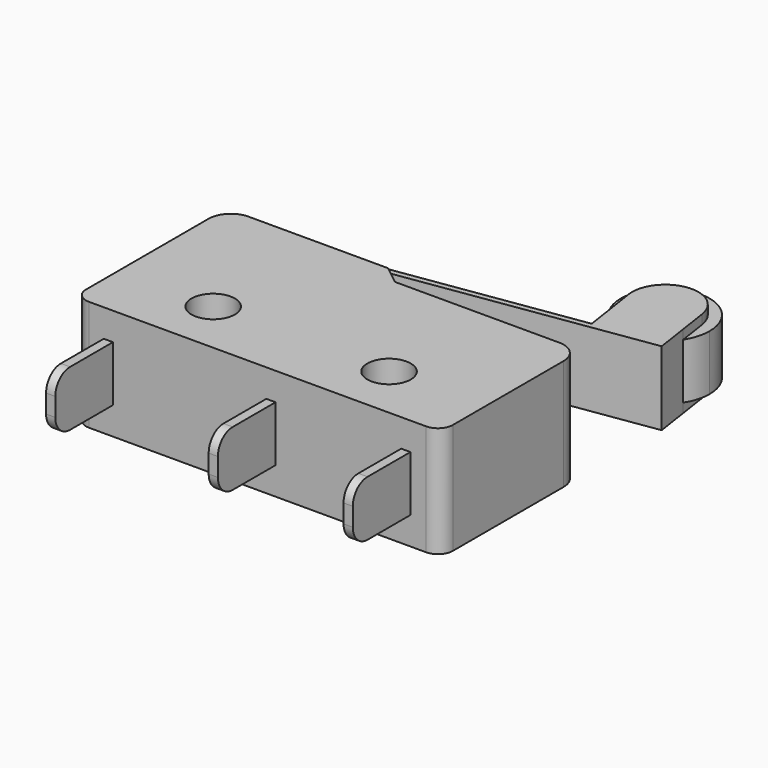
from build123d import *

# Parameters (mm, degrees)
F0_R     = 1.486134
F1_DEPTH = 1.5
F2_DEPTH = 2
F0_R_2   = 1.175
F3_DEPTH = 3
F0_W     = 0.498902
F0_H     = 3.899722
F0_W_2   = 0.498903
F4_DEPTH = 1.5
F5_R     = 1


with BuildPart() as f1:
    # F0 (on Top) → F1 (new body, symmetric)
    with BuildSketch(Plane.XY):
        with BuildLine():
            Line((9.956507, 9.285055), (10.191603, 7.715109))
            ThreePointArc((10.191603, 7.715109), (10.478158, 8.338993), (10.576356, 9.018481))
            ThreePointArc((10.576356, 9.018481), (7.15933, 11.192339), (6.638307, 7.17609))
            Line((6.638307, 7.17609), (6.424053, 8.606856))
            ThreePointArc((6.424053, 8.606856), (7.83697, 10.786197), (9.956507, 9.285055))
        make_face()
        with BuildLine():
            ThreePointArc((6.638307, 7.17609), (8.536307, 6.645627), (10.191603, 7.715109))
            Line((10.191603, 7.715109), (9.956507, 9.285055))
            ThreePointArc((9.956507, 9.285055), (7.83697, 10.786197), (6.424053, 8.606856))
            Line((6.424053, 8.606856), (6.638307, 7.17609))
        make_face()
        with Locations((8.176356, 9.018481)):
            Circle(F0_R, mode=Mode.SUBTRACT)
    extrude(amount=F1_DEPTH, both=True)

    # F0 (on Top) → F2 (join, symmetric)
    with BuildSketch(Plane.XY):
        with BuildLine():
            Line((-8.083594, 2.783208), (-7.783598, 2.783208))
            ThreePointArc((-7.783598, 2.783208), (-7.668552, 3.092999), (-7.379205, 3.252638))
            Line((-7.379205, 3.252638), (10.459818, 5.923991))
            Line((10.459818, 5.923991), (10.191603, 7.715109))
            ThreePointArc((10.191603, 7.715109), (8.536307, 6.645627), (6.638307, 7.17609))
            Line((6.638307, 7.17609), (6.861082, 5.688423))
            Line((6.861082, 5.688423), (-7.423694, 3.549311))
            ThreePointArc((-7.423694, 3.549311), (-7.895881, 3.288779), (-8.083594, 2.783208))
        make_face()
        with BuildLine():
            ThreePointArc((6.638307, 7.17609), (8.536307, 6.645627), (10.191603, 7.715109))
            Line((10.191603, 7.715109), (9.956507, 9.285055))
            ThreePointArc((9.956507, 9.285055), (7.83697, 10.786197), (6.424053, 8.606856))
            Line((6.424053, 8.606856), (6.638307, 7.17609))
        make_face()
        with Locations((8.176356, 9.018481)):
            Circle(F0_R, mode=Mode.SUBTRACT)
        with Locations((8.176356, 9.018481)):
            Circle(F0_R)
    extrude(amount=F2_DEPTH, both=True)

    # F0 (on Top) → F3 (join, symmetric)
    with BuildSketch(Plane.XY):
        with BuildLine():
            Line((8.067619, 1.983345), (-0.828579, 1.983345))
            Line((-0.828579, 1.983345), (-1.832268, 2.783208))
            Line((-1.832268, 2.783208), (-2.733431, 2.783208))
            Line((-2.733431, 2.783208), (-4.733298, 2.783208))
            Line((-4.733298, 2.783208), (-7.783598, 2.783208))
            Line((-7.783598, 2.783208), (-8.083594, 2.783208))
            Line((-8.083594, 2.783208), (-9.383528, 2.783208))
            ThreePointArc((-9.383528, 2.783208), (-10.232056, 2.431737), (-10.583528, 1.583208))
            Line((-10.583528, 1.583208), (-10.583528, -6.717112))
            ThreePointArc((-10.583528, -6.717112), (-10.349214, -7.282798), (-9.783528, -7.517112))
            Line((-9.783528, -7.517112), (-8.983085, -7.517112))
            Line((-8.983085, -7.517112), (-8.484182, -7.517112))
            Line((-8.484182, -7.517112), (-0.182472, -7.517112))
            Line((-0.182472, -7.517112), (0.316431, -7.517112))
            Line((0.316431, -7.517112), (7.116681, -7.517112))
            Line((7.116681, -7.517112), (7.615583, -7.517112))
            Line((7.615583, -7.517112), (8.467619, -7.517112))
            ThreePointArc((8.467619, -7.517112), (9.033304, -7.282798), (9.267619, -6.717112))
            Line((9.267619, -6.717112), (9.267619, 0.783345))
            ThreePointArc((9.267619, 0.783345), (8.916147, 1.631874), (8.067619, 1.983345))
        make_face()
        with Locations((-5.415644, -4.574013)):
            Circle(F0_R_2, mode=Mode.SUBTRACT)
        with Locations((4.104344, -4.574013)):
            Circle(F0_R_2, mode=Mode.SUBTRACT)
    extrude(amount=F3_DEPTH, both=True)

    # F0 (on Top) → F4 (join, symmetric)
    with BuildSketch(Plane.XY):
        with Locations((7.366132, -9.466973)):
            Rectangle(F0_W, F0_H)
        with Locations((0.066979, -9.466973)):
            Rectangle(F0_W_2, F0_H)
        with Locations((-8.733633, -9.466973)):
            Rectangle(F0_W_2, F0_H)
        with BuildLine():
            Line((-4.733298, 2.783208), (-2.733431, 2.783208))
            Line((-2.733431, 2.783208), (-2.733431, 3.142395))
            ThreePointArc((-2.733431, 3.142395), (-3.733365, 3.784402), (-4.733298, 3.142395))
            Line((-4.733298, 3.142395), (-4.733298, 2.783208))
        make_face()
    extrude(amount=F4_DEPTH, both=True)

    # F5
    f5_edges = [f1.edges().sort_by_distance(p)[0] for p in [
        (-8.733634, -11.416834, 1.5),
        (0.066979, -11.416834, 1.5),
        (7.366132, -11.416834, 1.5),
        (7.366132, -11.416834, -1.5),
        (0.066979, -11.416834, -1.5),
        (-8.733634, -11.416834, -1.5),
    ]]
    fillet(f5_edges, radius=F5_R)


solid = f1.part
